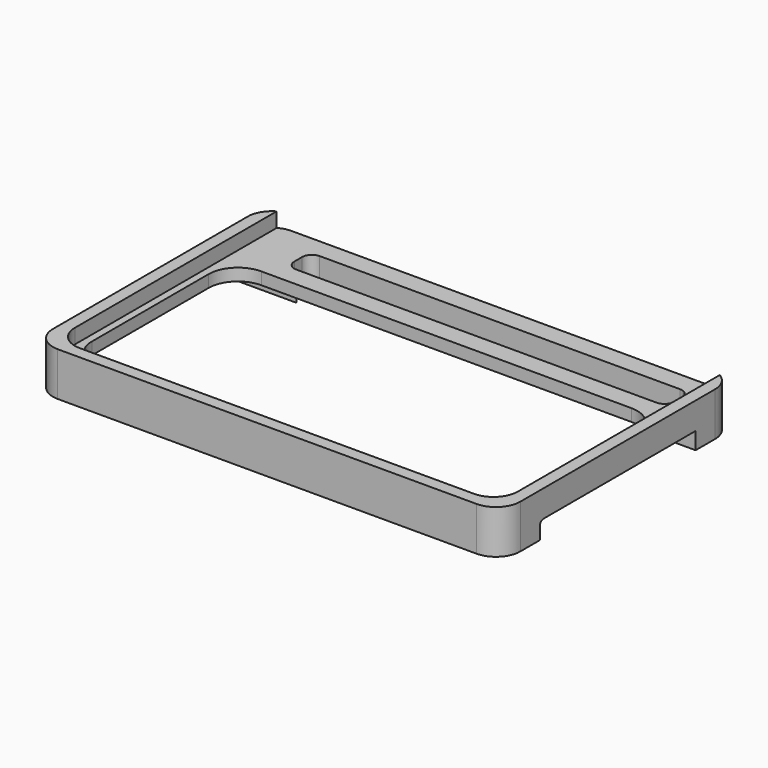
from build123d import *

# Parameters (mm, degrees)
SKETCH135_W             = 30
SKETCH135_H             = 48
PAD050_DEPTH            = 4.5
SKETCH137_W             = 3
SKETCH137_H             = 39
SKETCH137_W_2           = 21
SKETCH137_H_2           = 44
POCKET047_DEPTH         = 5
FILLET058_R             = 3
FILLET059_R             = 2.5
FILLET060_R             = 1
SKETCH138_W             = 30
SKETCH138_H             = 45.5
POCKET048_DEPTH         = 1.5
FILLET061_R             = 2.5
SKETCH139_W             = 20
SKETCH139_H             = 4
POCKET049_DEPTH         = 48.001
FILLET062_R             = 0.5
BODY057_PLACEMENT_ANGLE = 90


with BuildPart() as part:
    # Sketch135 → Pad050 (new body)
    with BuildSketch(Plane.XY):
        Rectangle(SKETCH135_W, SKETCH135_H)
    extrude(amount=PAD050_DEPTH)

    # Sketch137 (on Face6 of Pad050) → Pocket047 (cut)
    with BuildSketch(Plane.XY.offset(4.5)):
        with Locations((11.5, -1.5)):
            Rectangle(SKETCH137_W, SKETCH137_H)
        with Locations((-2.5, 0)):
            Rectangle(SKETCH137_W_2, SKETCH137_H_2)
    extrude(amount=-POCKET047_DEPTH, mode=Mode.SUBTRACT)

    # Fillet058
    fillet058_edges = [part.edges().sort_by_distance(p)[0] for p in [
        (8, 22, 2.25),
        (-13, 22, 2.25),
        (8, -22, 2.25),
        (-13, -22, 2.25),
    ]]
    fillet(fillet058_edges, radius=FILLET058_R)

    # Fillet059
    fillet059_edges = [part.edges().sort_by_distance(p)[0] for p in [
        (-15, 24, 2.25),
        (-15, -24, 2.25),
        (15, 24, 2.25),
        (15, -24, 2.25),
    ]]
    fillet(fillet059_edges, radius=FILLET059_R)

    # Fillet060
    fillet060_edges = [part.edges().sort_by_distance(p)[0] for p in [
        (10, 18, 2.25),
        (13, 18, 2.25),
        (13, -21, 2.25),
        (10, -21, 2.25),
    ]]
    fillet(fillet060_edges, radius=FILLET060_R)

    # Sketch138 (on Face26 of Fillet060) → Pocket048 (cut)
    with BuildSketch(Plane.XY.offset(4.5)):
        with Locations((1.25, 0)):
            Rectangle(SKETCH138_W, SKETCH138_H)
    extrude(amount=-POCKET048_DEPTH, mode=Mode.SUBTRACT)

    # Fillet061
    fillet061_edges = [part.edges().sort_by_distance(p)[0] for p in [
        (-13.75, 22.75, 3.75),
        (-13.75, -22.75, 3.75),
    ]]
    fillet(fillet061_edges, radius=FILLET061_R)

    # Sketch139 (on Face27 of Fillet061) → Pocket049 (cut, through all)
    with BuildSketch(Plane.XZ.offset(24)):
        with Locations((0, -0.25)):
            Rectangle(SKETCH139_W, SKETCH139_H)
    extrude(amount=-POCKET049_DEPTH, mode=Mode.SUBTRACT)

    # Fillet062
    fillet062_edges = [part.edges().sort_by_distance(p)[0] for p in [
        (-10, -23, 1.75),
        (-10, 23, 1.75),
    ]]
    fillet(fillet062_edges, radius=FILLET062_R)


with BuildPart() as part_1:
    # Body057 placement: moved
    add(part.part.moved(Location((4, -21, 12))).rotate(Axis((4, -21, 12), (0, 0, 1)), BODY057_PLACEMENT_ANGLE))


solid = part_1.part
